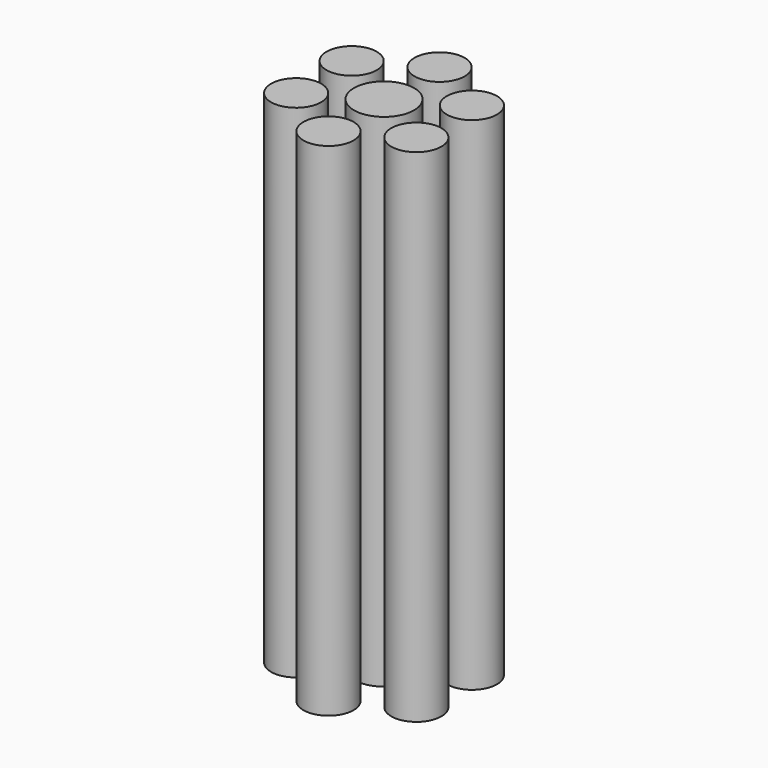
from build123d import *

# Parameters (mm, degrees)
F0_R     = 5
F1_R     = 5
F1_R_2   = 6
F2_DEPTH = 100


with BuildPart() as f2:
    # F0 (on Top) + F1 (on face) → F2 (new body)
    with BuildSketch(Plane.XY):
        with Locations((0, 13.838115)):
            Circle(F0_R)
        with Locations((-11.984159, 6.919058)):
            Circle(F0_R)
    with BuildSketch(Plane.XY):
        with Locations((11.984159, -6.919058)):
            Circle(F1_R)
        with Locations((11.984159, 6.919058)):
            Circle(F1_R)
        with Locations((-11.984159, -6.919058)):
            Circle(F1_R)
        with Locations((0, -13.838115)):
            Circle(F1_R)
        Circle(F1_R_2)
    extrude(amount=F2_DEPTH)


solid = f2.part
